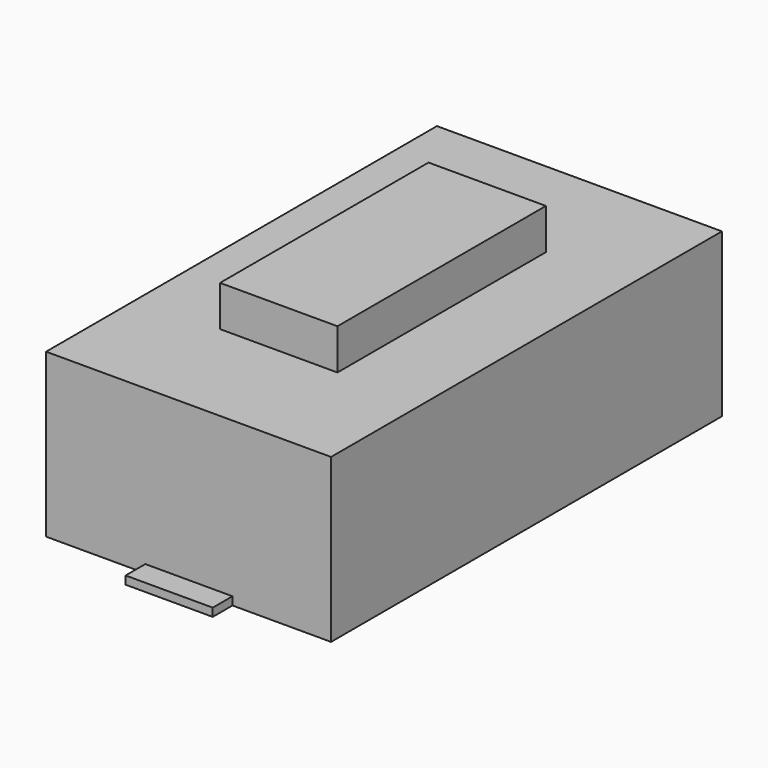
from build123d import *

# Parameters (mm, degrees)
PAD_DEPTH    = 2
SKETCH001_W  = 1.441815
SKETCH001_H  = 3.200363
PAD001_DEPTH = 0.5
SKETCH002_W  = 1.070261
SKETCH002_H  = 6.362106
PAD002_DEPTH = 0.1


with BuildPart() as part:
    # Sketch → Pad (new body)
    with BuildSketch(Plane.XY):
        Polygon((0, 3), (1.75, 3), (1.75, 0), (1.75, -3), (0, -3), (-1.75, -3), (-1.75, 0), (-1.75, 3), align=None)
    extrude(amount=PAD_DEPTH)

    # Sketch001 → Pad001 (join)
    with BuildSketch(Plane(origin=(0.5, -2.5, 2), x_dir=(1, 0, 0), z_dir=(0, 0, 1))):
        with Locations((-0.51884, 2.507786)):
            Rectangle(SKETCH001_W, SKETCH001_H)
    extrude(amount=PAD001_DEPTH)

    # Sketch002 → Pad002 (join)
    with BuildSketch(Plane.XY):
        with Locations((0.003927, -0.122119)):
            Rectangle(SKETCH002_W, SKETCH002_H)
    extrude(amount=PAD002_DEPTH)


solid = part.part
